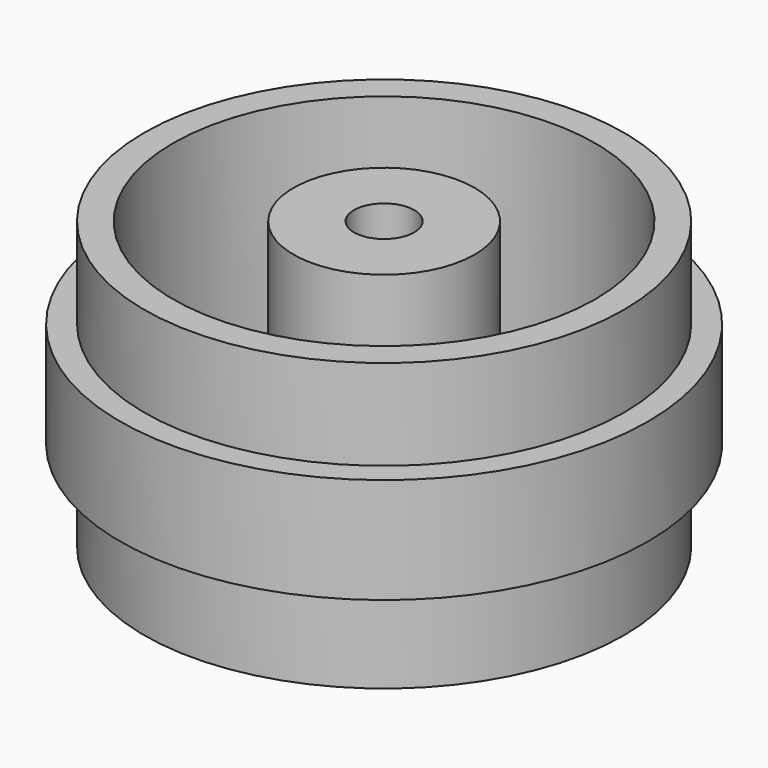
from build123d import *

# Parameters (mm, degrees)
F0_R      = 7.95
F1_DEPTH  = 3
F2_R      = 8.75
F3_DEPTH  = 3.5
F4_R      = 7.95
F5_DEPTH  = 3
F6_R      = 1.3579973099
F9_DEPTH  = 20.4
F8_R      = 7
F8_R_2    = 3
F8_R_3    = 1
F10_DEPTH = 9


with BuildPart() as f1:
    # F0 (on Top) → F1 (new body)
    with BuildSketch(Plane.XY):
        Circle(F0_R)
    extrude(amount=F1_DEPTH)

    # F2 (on face) → F3 (join)
    with BuildSketch(Plane.XY.offset(3)):
        Circle(F2_R)
    extrude(amount=F3_DEPTH)

    # F4 (on face) → F5 (join)
    with BuildSketch(Plane.XY.offset(6.5)):
        Circle(F4_R)
    extrude(amount=F5_DEPTH)

    # F6 (on face) → F9 (cut)
    with BuildSketch(Plane.XY.offset(9.5)):
        with Locations((0, 4.9537713639)):
            Circle(F6_R)
        with Locations((-4.7113165359, 1.5307995377)):
            Circle(F6_R)
        with Locations((-2.911753751, -4.0076852197)):
            Circle(F6_R)
        with Locations((2.911753751, -4.0076852197)):
            Circle(F6_R)
        with Locations((4.7113165359, 1.5307995377)):
            Circle(F6_R)
    extrude(amount=-F9_DEPTH, mode=Mode.SUBTRACT)

    # F8 (on face) → F10 (cut)
    with BuildSketch(Plane.XY.offset(9.5)):
        Circle(F8_R)
        Circle(F8_R_2, mode=Mode.SUBTRACT)
        Circle(F8_R_3)
    extrude(amount=-F10_DEPTH, mode=Mode.SUBTRACT)


solid = f1.part
